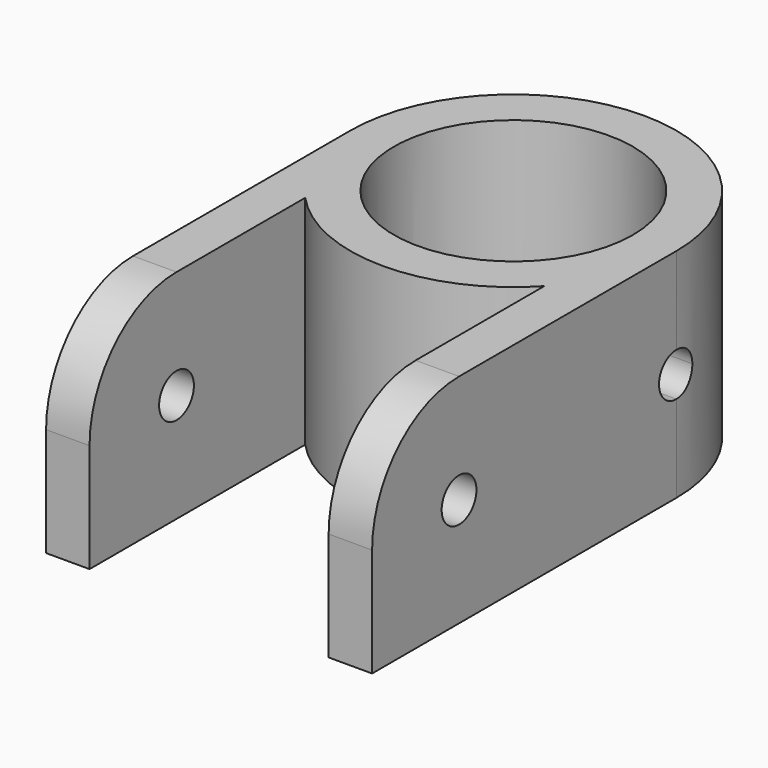
from build123d import *

# Parameters (mm, degrees)
F1_DEPTH = 20
F2_R     = 10
F3_R     = 2
F4_DEPTH = 30


with BuildPart() as f1:
    # F0 (on Top) → F1 (new body)
    with BuildSketch(Plane.XY):
        with BuildLine():
            ThreePointArc((-11, 0), (0, 11), (11, 0))
            Line((11, 0), (15, 0))
            ThreePointArc((15, 0), (0, 15), (-15, 0))
            Line((-15, 0), (-11, 0))
        make_face()
        with BuildLine():
            Line((15, 0), (11, 0))
            Line((11, 0), (11, -10.1980390272))
            ThreePointArc((11, -10.1980390272), (13.9642400438, -5.4772255751), (15, 0))
        make_face()
        with BuildLine():
            Line((-11, -10.1980390272), (-11, 0))
            Line((-11, 0), (-15, 0))
            ThreePointArc((-15, 0), (-13.9642400438, -5.4772255751), (-11, -10.1980390272))
        make_face()
        with BuildLine():
            Line((11, -10.1980390272), (11, 0))
            ThreePointArc((11, 0), (0, -11), (-11, 0))
            Line((-11, 0), (-11, -10.1980390272))
            ThreePointArc((-11, -10.1980390272), (0, -15), (11, -10.1980390272))
        make_face()
        with BuildLine():
            ThreePointArc((-11, -10.1980390272), (-13.9642400438, -5.4772255751), (-15, 0))
            Line((-15, 0), (-15, -35))
            Line((-15, -35), (-11, -35))
            Line((-11, -35), (-11, -10.1980390272))
        make_face()
        with BuildLine():
            Line((15, -35), (15, 0))
            ThreePointArc((15, 0), (13.9642400438, -5.4772255751), (11, -10.1980390272))
            Line((11, -10.1980390272), (11, -35))
            Line((11, -35), (15, -35))
        make_face()
    extrude(amount=F1_DEPTH)

    # F2
    f2_edges = [f1.edges().sort_by_distance(p)[0] for p in [
        (-13, -35, 20),
        (13, -35, 20),
    ]]
    fillet(f2_edges, radius=F2_R)

    # F3 (on face) → F4 (cut)
    with BuildSketch(Plane.YZ.offset(15)):
        with Locations((-25, 10)):
            Circle(F3_R)
        with BuildLine():
            ThreePointArc((0, 8), (1.4142135624, 8.5857864376), (2, 10))
            ThreePointArc((2, 10), (1.4142135624, 11.4142135624), (0, 12))
            Line((0, 12), (0, 8))
        make_face()
        with BuildLine():
            Line((0, 8), (0, 12))
            ThreePointArc((0, 12), (-2, 10), (0, 8))
        make_face()
    extrude(amount=-F4_DEPTH, mode=Mode.SUBTRACT)


solid = f1.part
